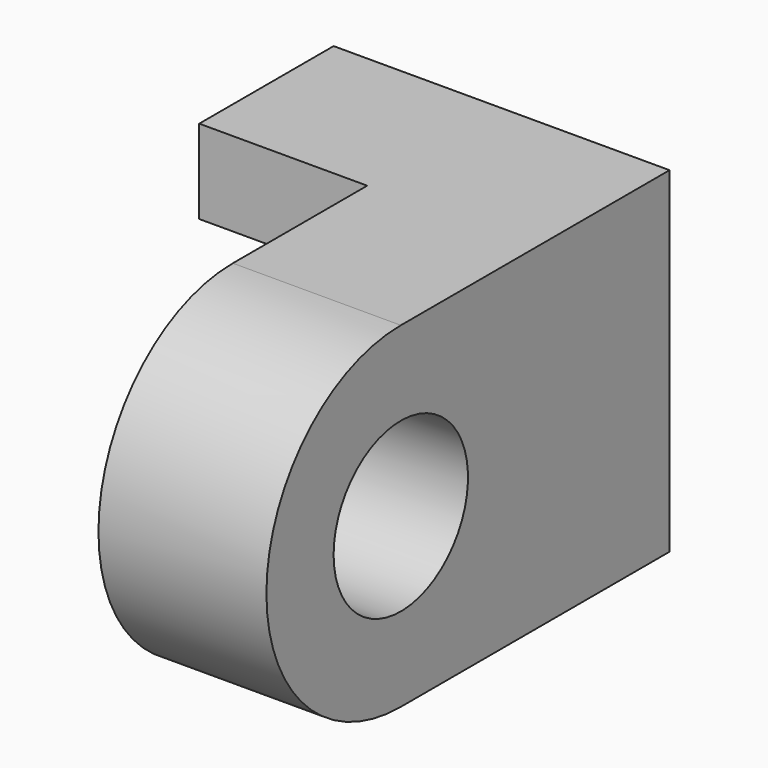
from build123d import *

# Parameters (mm, degrees)
F1_DEPTH = 25.4
F2_W     = 6.35
F2_H     = 12.7
F3_DEPTH = 12.701
F4_R     = 6.35
F5_DEPTH = 12.701
F7_DEPTH = 12.701
F8_DEPTH = 25.402


with BuildPart() as f1:
    # F0 (on Top) → F1 (new body)
    with BuildSketch(Plane.XY):
        Polygon((25.4, 0), (0, 0), (0, -12.7), (12.7, -12.7), (12.7, -50.8), (25.4, -50.8), align=None)
    extrude(amount=F1_DEPTH)

    # F2 (on face) → F3 (cut, through all)
    with BuildSketch(Plane.XZ.offset(12.7)):
        with Locations((3.175, 12.7)):
            Rectangle(F2_W, F2_H)
    extrude(amount=-F3_DEPTH, mode=Mode.SUBTRACT)

    # F4 (on face) → F5 (cut, through all)
    with BuildSketch(Plane(origin=(12.7, 0, 0), x_dir=(0, -1, 0), z_dir=(-1, 0, 0))):
        with Locations((25.4, 12.7)):
            Circle(F4_R)
    extrude(amount=-F5_DEPTH, mode=Mode.SUBTRACT)

    # F6 (on face) → F7 (join, through all)
    with BuildSketch(Plane(origin=(12.7, 0, 0), x_dir=(0, -1, 0), z_dir=(-1, 0, 0))):
        with BuildLine():
            Line((50.8, 25.4), (25.4, 25.4))
            ThreePointArc((25.4, 25.4), (38.1, 12.7), (25.4, 0))
            Line((25.4, 0), (50.8, 0))
            Line((50.8, 0), (50.8, 25.4))
        make_face()
    extrude(amount=F7_DEPTH)

    # F8 (cut, through all): a face of the model
    f8_faces = [f1.faces().sort_by_distance(p)[0] for p in [
        (-0.001, -42.8268357159, 12.7),
    ]]
    extrude(f8_faces, amount=-F8_DEPTH, mode=Mode.SUBTRACT)


solid = f1.part
